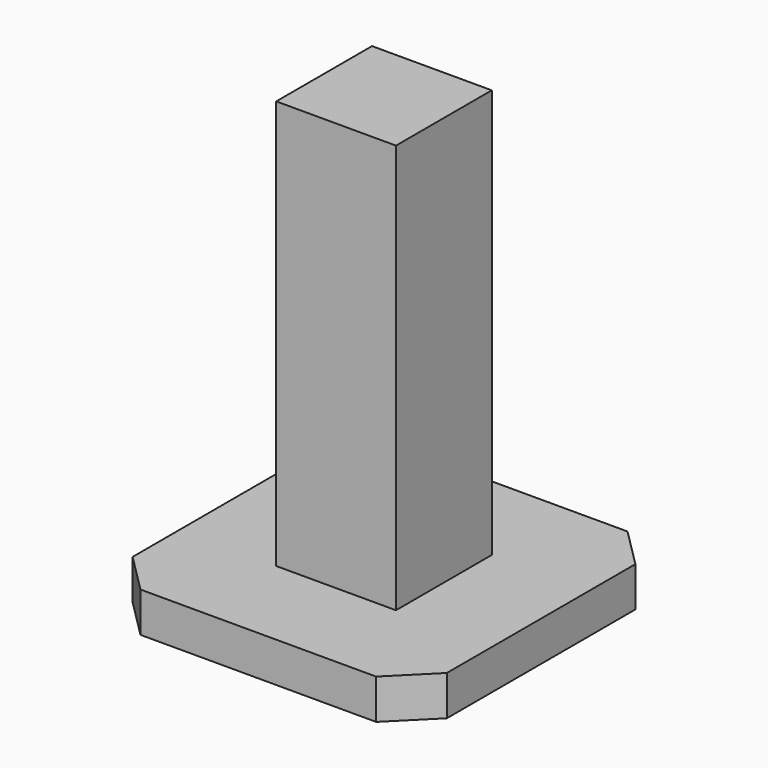
from build123d import *

# Parameters (mm, degrees)
F0_W     = 400
F0_H     = 400
F1_DEPTH = 50.8
F2_SIZE  = 50
F3_W     = 152.4
F3_H     = 152.4
F4_DEPTH = 520.7


with BuildPart() as f1:
    # F0 (on Top) → F1 (new body)
    with BuildSketch(Plane.XY):
        Rectangle(F0_W, F0_H)
    extrude(amount=F1_DEPTH)

    # F2
    f2_edges = [f1.edges().sort_by_distance(p)[0] for p in [
        (-200, 200, 25.4),
        (-200, -200, 25.4),
        (200, -200, 25.4),
        (200, 200, 25.4),
    ]]
    chamfer(f2_edges, length=F2_SIZE)

    # F3 (on face) → F4 (join)
    with BuildSketch(Plane.XY.offset(50.8)):
        Rectangle(F3_W, F3_H)
    extrude(amount=F4_DEPTH)


solid = f1.part
